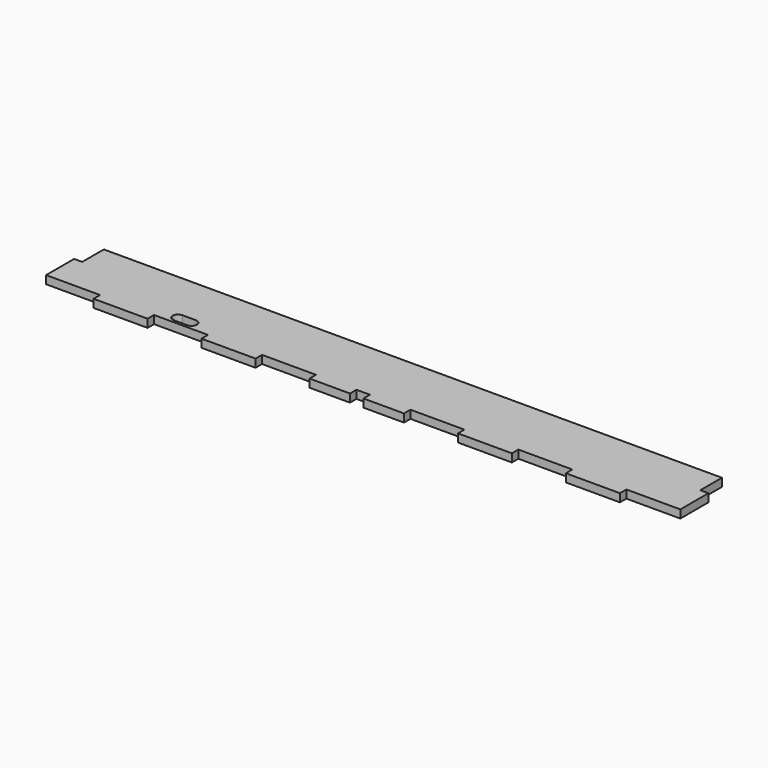
from build123d import *

# Parameters (mm, degrees)
F1_DEPTH = 3


with BuildPart() as f1:
    # F0 (on Top) → F1 (new body)
    with BuildSketch(Plane.XY):
        Polygon((97.5, 26), (-17, 26), (-17, 16), (-20, 16), (-20, 3), (0, 3), (0, 0), (20, 0), (20, 3), (40, 3), (40, 0), (60, 0), (60, 3), (80, 3), (80, 0), (95, 0), (95, 3), (97.5, 3), align=None)
        with BuildLine():
            ThreePointArc((24.5, 6), (25.085786, 7.414214), (26.5, 8))
            Line((26.5, 8), (31.5, 8))
            ThreePointArc((31.5, 8), (32.914214, 7.414214), (33.5, 6))
            ThreePointArc((33.5, 6), (32.914214, 4.585786), (31.5, 4))
            Line((31.5, 4), (26.5, 4))
            ThreePointArc((26.5, 4), (25.085786, 4.585786), (24.5, 6))
        make_face(mode=Mode.SUBTRACT)
        Polygon((212, 26), (97.5, 26), (97.5, 3), (100, 3), (100, 0), (115, 0), (115, 3), (135, 3), (135, 0), (155, 0), (155, 3), (175, 3), (175, 0), (195, 0), (195, 3), (215, 3), (215, 16), (212, 16), align=None)
    extrude(amount=-F1_DEPTH)


solid = f1.part
